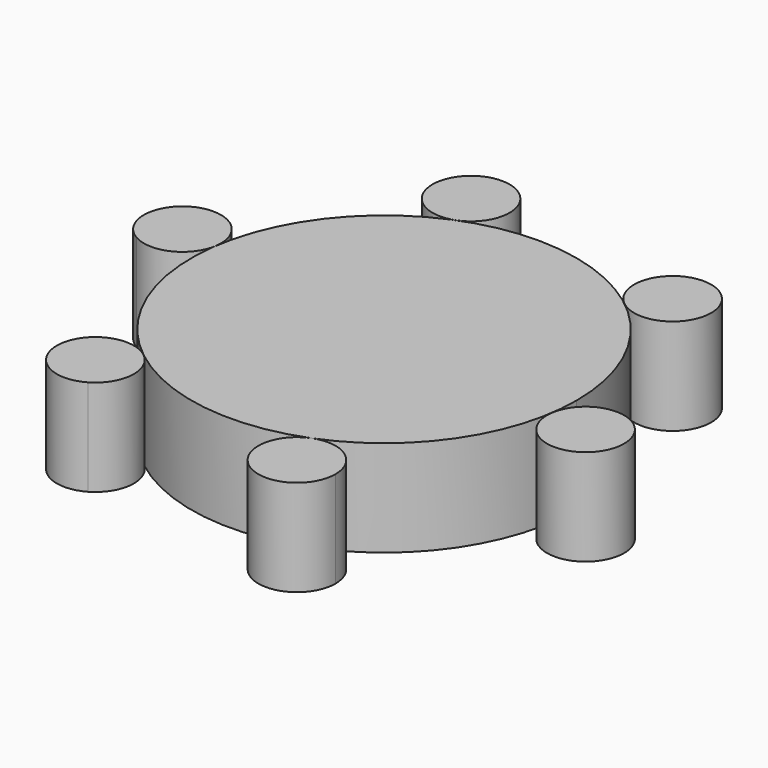
from build123d import *

# Parameters (mm, degrees)
F1_DEPTH = 25
F2_COUNT = 6


with BuildPart() as f1:
    # F0 (on Top) → F1 (new body)
    with BuildSketch(Plane.XY):
        with BuildLine():
            ThreePointArc((18.3746882659, -46.5012992413), (41.3444942725, -28.1181932804), (50, 0))
            ThreePointArc((50, 0), (-41.3444942725, 28.1181932804), (18.3746882659, -46.5012992413))
        make_face()
    extrude(amount=F1_DEPTH)


with BuildPart() as f1b:
    # F0 (on Top) → F1, piece 2 (new body)
    with BuildSketch(Plane.XY):
        with BuildLine():
            ThreePointArc((32.0496261594, -55.8015589946), (27.6732647086, -47.5326600675), (18.3746882659, -46.5012992413))
            ThreePointArc((18.3746882659, -46.5012992413), (16.4259876102, -64.0704579218), (32.0496261594, -55.8015589946))
        make_face()
    extrude(amount=F1_DEPTH)


with BuildPart() as f2_1:
    # F2: instance of F1b
    add(f1b.part.rotate(Axis((0, 0, 25), (0, 0, -1)), 1 * 360 / F2_COUNT))


with BuildPart() as f2_2:
    # F2: instance of F1b
    add(f1b.part.rotate(Axis((0, 0, 25), (0, 0, -1)), 2 * 360 / F2_COUNT))


with BuildPart() as f2_3:
    # F2: instance of F1b
    add(f1b.part.rotate(Axis((0, 0, 25), (0, 0, -1)), 3 * 360 / F2_COUNT))


with BuildPart() as f2_4:
    # F2: instance of F1b
    add(f1b.part.rotate(Axis((0, 0, 25), (0, 0, -1)), 4 * 360 / F2_COUNT))


with BuildPart() as f2_5:
    # F2: instance of F1b
    add(f1b.part.rotate(Axis((0, 0, 25), (0, 0, -1)), 5 * 360 / F2_COUNT))


solid = Compound([f1.part, f1b.part, f2_1.part, f2_2.part, f2_3.part, f2_4.part, f2_5.part])
